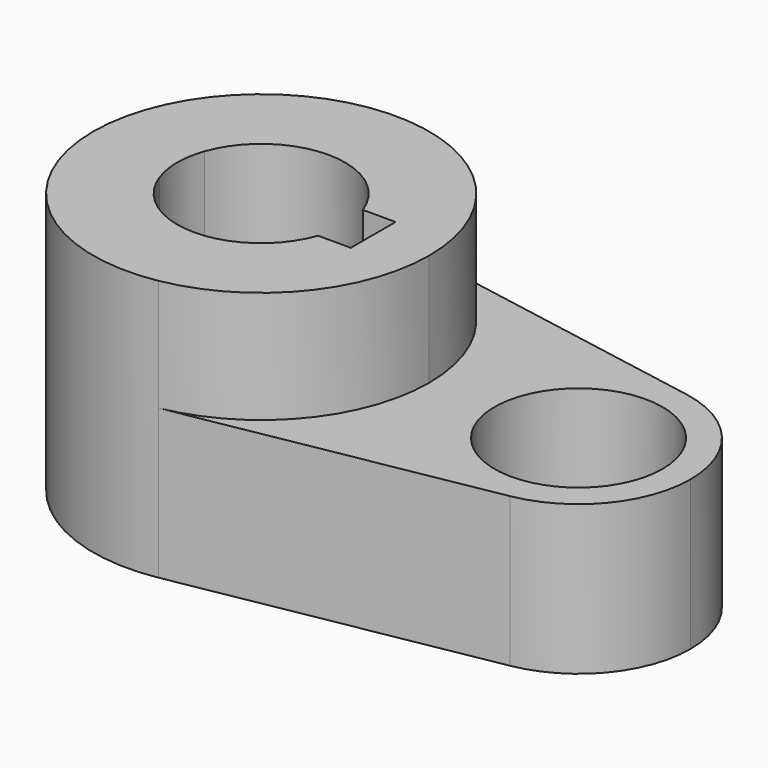
from build123d import *

# Parameters (mm, degrees)
F0_R     = 14.2875
F1_DEPTH = 25.4
F2_DEPTH = 44.45


with BuildPart() as f1:
    # F0 (on Top) → F1 (new body)
    with BuildSketch(Plane.XY):
        with BuildLine():
            ThreePointArc((-13.470384, -4.7625), (-14.2875, 0), (-13.470384, 4.7625))
            Line((-13.470384, 4.7625), (-19.05, 4.7625))
            Line((-19.05, 4.7625), (-19.05, -4.7625))
            Line((-19.05, -4.7625), (-13.470384, -4.7625))
        make_face()
        with BuildLine():
            ThreePointArc((5.042647, 28.126541), (21.916025, 18.336262), (28.575, 0))
            ThreePointArc((28.575, 0), (21.916025, -18.336262), (5.042647, -28.126541))
            Line((5.042647, -28.126541), (57.336765, -18.751028))
            ThreePointArc((57.336765, -18.751028), (34.925, 0), (57.336765, 18.751028))
            Line((57.336765, 18.751028), (5.042647, 28.126541))
        make_face()
        with BuildLine():
            ThreePointArc((5.042647, -28.126541), (21.916025, -18.336262), (28.575, 0))
            ThreePointArc((28.575, 0), (21.916025, 18.336262), (5.042647, 28.126541))
            ThreePointArc((5.042647, 28.126541), (-28.575, 0), (5.042647, -28.126541))
        make_face()
        with BuildLine():
            ThreePointArc((-13.470384, 4.7625), (0, 14.2875), (13.470384, 4.7625))
            Line((13.470384, 4.7625), (19.05, 4.7625))
            Line((19.05, 4.7625), (19.05, -4.7625))
            Line((19.05, -4.7625), (13.470384, -4.7625))
            ThreePointArc((13.470384, -4.7625), (0, -14.2875), (-13.470384, -4.7625))
            Line((-13.470384, -4.7625), (-19.05, -4.7625))
            Line((-19.05, -4.7625), (-19.05, 4.7625))
            Line((-19.05, 4.7625), (-13.470384, 4.7625))
        make_face(mode=Mode.SUBTRACT)
        with BuildLine():
            ThreePointArc((73.025, 0), (68.585683, 12.224174), (57.336765, 18.751028))
            ThreePointArc((57.336765, 18.751028), (34.925, 0), (57.336765, -18.751028))
            ThreePointArc((57.336765, -18.751028), (68.585683, -12.224174), (73.025, 0))
        make_face()
        with Locations((53.975, 0)):
            Circle(F0_R, mode=Mode.SUBTRACT)
    extrude(amount=F1_DEPTH)

    # F0 (on Top) → F2 (join)
    with BuildSketch(Plane.XY):
        with BuildLine():
            ThreePointArc((5.042647, -28.126541), (21.916025, -18.336262), (28.575, 0))
            ThreePointArc((28.575, 0), (21.916025, 18.336262), (5.042647, 28.126541))
            ThreePointArc((5.042647, 28.126541), (-28.575, 0), (5.042647, -28.126541))
        make_face()
        with BuildLine():
            ThreePointArc((-13.470384, 4.7625), (0, 14.2875), (13.470384, 4.7625))
            Line((13.470384, 4.7625), (19.05, 4.7625))
            Line((19.05, 4.7625), (19.05, -4.7625))
            Line((19.05, -4.7625), (13.470384, -4.7625))
            ThreePointArc((13.470384, -4.7625), (0, -14.2875), (-13.470384, -4.7625))
            Line((-13.470384, -4.7625), (-19.05, -4.7625))
            Line((-19.05, -4.7625), (-19.05, 4.7625))
            Line((-19.05, 4.7625), (-13.470384, 4.7625))
        make_face(mode=Mode.SUBTRACT)
        with BuildLine():
            ThreePointArc((-13.470384, -4.7625), (-14.2875, 0), (-13.470384, 4.7625))
            Line((-13.470384, 4.7625), (-19.05, 4.7625))
            Line((-19.05, 4.7625), (-19.05, -4.7625))
            Line((-19.05, -4.7625), (-13.470384, -4.7625))
        make_face()
    extrude(amount=F2_DEPTH)


solid = f1.part
